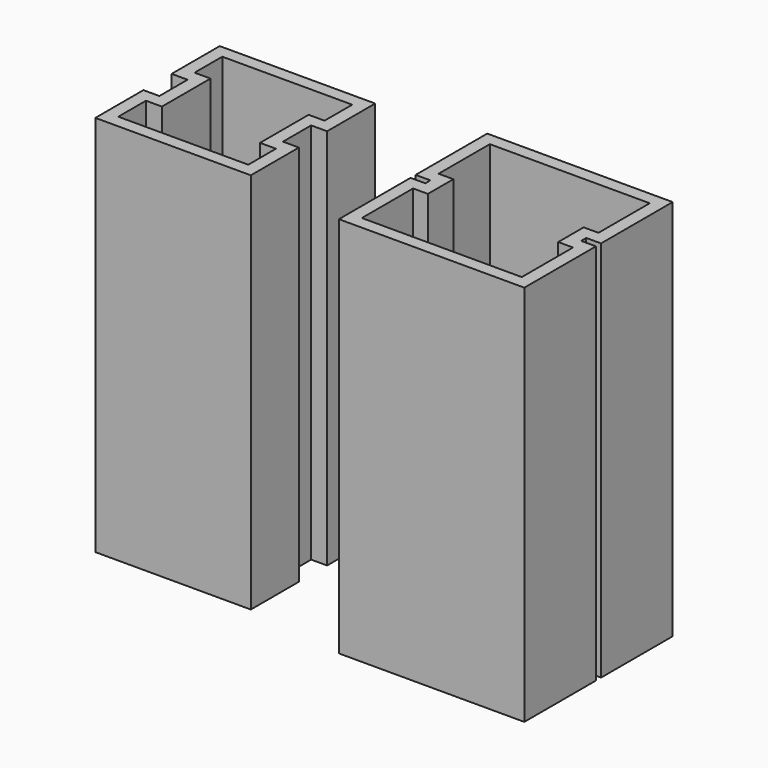
from build123d import *

# Parameters (mm, degrees)
F1_DEPTH = 60
F2_T     = -2
F2_2_T   = -2


with BuildPart() as f1:
    # F0 (on Top) → F1 (new body)
    with BuildSketch(Plane.XY):
        Polygon((-12.2, -12.2), (12.2, -12.2), (12.2, -2.7670562863), (9.7, -2.7670562863), (9.7, 2.7670562863), (12.2, 2.7670562863), (12.2, 12.2), (-12.2, 12.2), (-12.2, 2.7670562863), (-9.7, 2.7670562863), (-9.7, -2.7670562863), (-12.2, -2.7670562863), align=None)
    extrude(amount=F1_DEPTH)

    # F2
    f2_openings = [f1.faces().sort_by_distance(p)[0] for p in [
        (0, 0, 60),
    ]]
    offset(amount=F2_T, openings=f2_openings, kind=Kind.INTERSECTION)


with BuildPart() as f1b:
    # F0 (on Top) → F1, piece 2 (new body)
    with BuildSketch(Plane.XY):
        Polygon((57.0066343427, 0.5), (57.0066343427, 14.55), (27.9066343427, 14.55), (27.9066343427, 0.5), (30.2280262229, 0.5), (30.2280262229, -0.5), (27.9066343427, -0.5), (27.9066343427, -14.55), (57.0066343427, -14.55), (57.0066343427, -0.5), (54.6852424624, -0.5), (54.6852424624, 0.5), align=None)
    extrude(amount=F1_DEPTH)

    # F2#2
    f2_2_openings = [f1b.faces().sort_by_distance(p)[0] for p in [
        (42.456634, 0, 60),
    ]]
    offset(amount=F2_2_T, openings=f2_2_openings, kind=Kind.INTERSECTION)


solid = Compound([f1.part, f1b.part])
